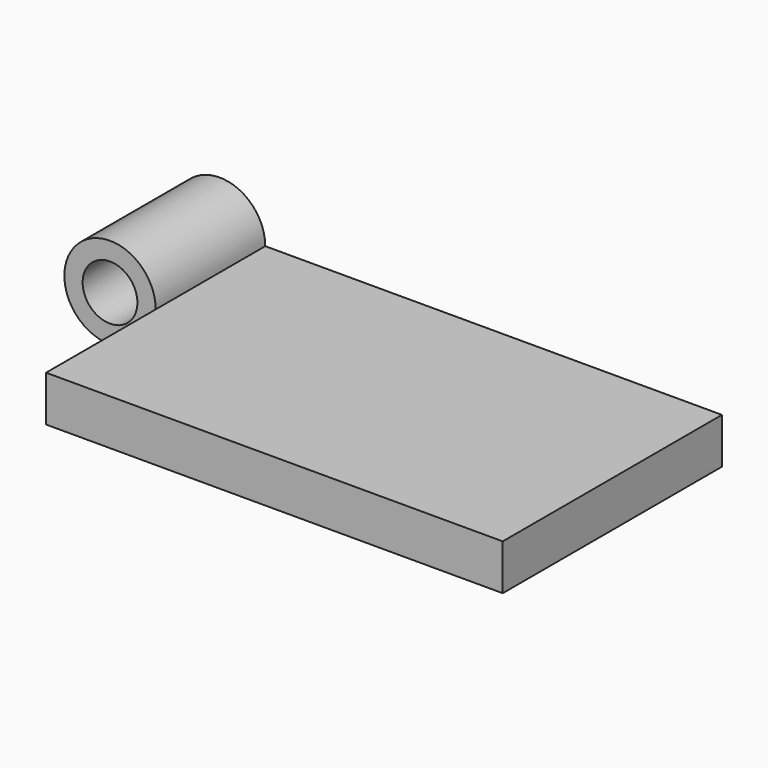
from build123d import *

# Parameters (mm, degrees)
F0_R     = 3.81
F1_DEPTH = 38.1
F3_DEPTH = 19.05


with BuildPart() as f1:
    # F0 (on Front) → F1 (new body)
    with BuildSketch(Plane.XZ):
        with BuildLine():
            Line((-31.75, -6.35), (38.1, -6.35))
            Line((38.1, -6.35), (38.1, 0))
            Line((38.1, 0), (-25.4, 0))
            ThreePointArc((-25.4, 0), (-27.259872, -4.490128), (-31.75, -6.35))
        make_face()
        with Locations((-31.75, 0)):
            Circle(F0_R)
        with BuildLine():
            ThreePointArc((-25.4, 0), (-36.240128, 4.490128), (-31.75, -6.35))
            ThreePointArc((-31.75, -6.35), (-27.259872, -4.490128), (-25.4, 0))
        make_face()
        with Locations((-31.75, 0)):
            Circle(F0_R, mode=Mode.SUBTRACT)
    extrude(amount=F1_DEPTH)

    # F2 (on face) → F3 (cut)
    with BuildSketch(Plane.XZ.offset(38.1)):
        with BuildLine():
            Line((-25.4, -6.35), (-25.4, 0))
            ThreePointArc((-25.4, 0), (-36.240128, 4.490128), (-31.75, -6.35))
            Line((-31.75, -6.35), (-25.4, -6.35))
        make_face()
    extrude(amount=-F3_DEPTH, mode=Mode.SUBTRACT)


solid = f1.part
